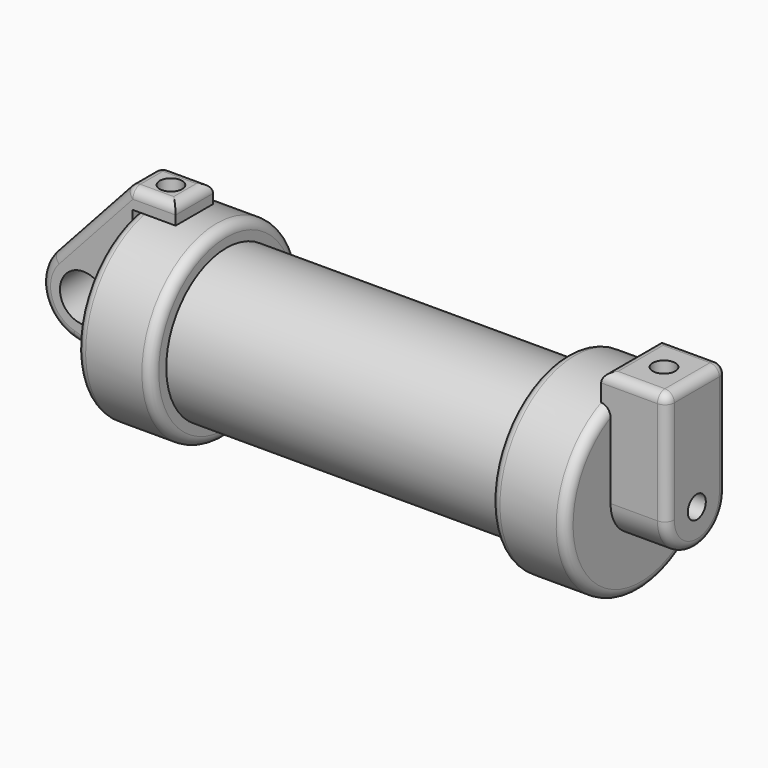
from build123d import *

# Parameters (mm, degrees)
F0_W          = 5.842
F0_H          = 12.7
F0_R          = 3.175
F2_DEPTH      = 3.175
F3_R          = 1.524
F4_DEPTH      = 7.62
F4_DEPTH_BACK = 1.27
F5_R          = 1.524
F6_DEPTH      = 63.754
F8_R          = 1.524
F9_DEPTH      = 17.78
F7_R          = 1.524
F10_DEPTH     = 10.414
F11_R         = 1.27
F11_2_R       = 1.27
F11_3_R       = 1.27


with BuildPart() as f1:
    # F0 (on Front) → F1 (revolve)
    with BuildSketch(Plane.XZ):
        Polygon((5.842, 12.7), (5.842, 0), (66.294, 0), (66.294, 12.7), (56.134, 12.7), (56.134, 10.16), (10.16, 10.16), (10.16, 12.7), align=None)
        with Locations((2.921, 6.35)):
            Rectangle(F0_W, F0_H)
    revolve(axis=Axis((33.147, 0, 0), (-1, 0, 0)))

    # F5 (on face) → F6 (cut, through all)
    with BuildSketch(Plane.YZ.offset(73.914)):
        Circle(F5_R)
    extrude(amount=-F6_DEPTH, mode=Mode.SUBTRACT)

    # F11
    f11_edges = [f1.edges().sort_by_distance(p)[0] for p in [
        (56.134, 0, -12.7),
        (66.294, 0, -12.7),
        (10.16, 0, -12.7),
        (0, 0, -12.7),
    ]]
    fillet(f11_edges, radius=F11_R)


with BuildPart() as f2:
    # F0 (on Front) → F2 (new body, symmetric)
    with BuildSketch(Plane.XZ):
        with BuildLine():
            Line((-0.9398, 0), (0, 0))
            Line((0, 0), (0, 12.7))
            Line((0, 12.7), (5.842, 12.7))
            Line((5.842, 12.7), (5.842, 15.24))
            Line((5.842, 15.24), (-0.508, 15.24))
            Line((-0.508, 15.24), (-10.8806298187, 3.8475430269))
            ThreePointArc((-10.8806298187, 3.8475430269), (-4.5919612295, 5.3297205562), (-0.9398, 0))
        make_face()
        with BuildLine():
            ThreePointArc((-8.1826630726, -5.5069827884), (-3.1957909266, -4.5493385486), (-0.9398, 0))
            ThreePointArc((-0.9398, 0), (-4.5919612295, 5.3297205562), (-10.8806298187, 3.8475430269))
            ThreePointArc((-10.8806298187, 3.8475430269), (-12.1459778134, -1.5837270034), (-8.1826630726, -5.5069827884))
        make_face()
        with Locations((-6.6548, 0)):
            Circle(F0_R, mode=Mode.SUBTRACT)
        with BuildLine():
            Line((5.842, 0), (0, 0))
            Line((0, 0), (-0.9398, 0))
            ThreePointArc((-0.9398, 0), (-3.1957909266, -4.5493385486), (-8.1826630726, -5.5069827884))
            Line((-8.1826630726, -5.5069827884), (5.842, -9.398))
            Line((5.842, -9.398), (5.842, 0))
        make_face()
    extrude(amount=F2_DEPTH, both=True)

    # F8 (on face) → F9 (cut)
    with BuildSketch(Plane.XY.offset(15.24)):
        with Locations((2.667, 0)):
            Circle(F8_R)
    extrude(amount=-F9_DEPTH, mode=Mode.SUBTRACT)

    # F11#2
    f11_2_edges = [f2.edges().sort_by_distance(p)[0] for p in [
        (5.842, 0, 15.24),
        (2.667, 3.175, 15.24),
        (-0.508, 0, 15.24),
        (2.667, -3.175, 15.24),
        (-5.694315, -3.175, 9.543772),
        (-12.145978, -3.175, -1.583727),
        (-12.145978, 3.175, -1.583727),
        (-5.694315, 3.175, 9.543772),
        (-1.170332, -3.175, -7.452491),
        (-1.170332, 3.175, -7.452491),
    ]]
    fillet(f11_2_edges, radius=F11_2_R)


with BuildPart() as f4:
    # F3 (on face) → F4 (new body, two sides)
    with BuildSketch(Plane.YZ.offset(66.294)) as f4_sk:
        with BuildLine():
            ThreePointArc((-5.08, 0), (0, -5.08), (5.08, 0))
            ThreePointArc((5.08, 0), (0, 5.08), (-5.08, 0))
        make_face()
        Circle(F3_R, mode=Mode.SUBTRACT)
        with BuildLine():
            ThreePointArc((-5.08, 0), (0, 5.08), (5.08, 0))
            Line((5.08, 0), (5.08, 15.24))
            Line((5.08, 15.24), (-5.08, 15.24))
            Line((-5.08, 15.24), (-5.08, 0))
        make_face()
    extrude(amount=F4_DEPTH)
    extrude(f4_sk.sketch, amount=-F4_DEPTH_BACK)

    # F7 (on face) → F10 (cut)
    with BuildSketch(Plane.XY.offset(15.24)):
        with Locations((69.469, 0)):
            Circle(F7_R)
    extrude(amount=-F10_DEPTH, mode=Mode.SUBTRACT)

    # F11#3
    f11_3_edges = [f4.edges().sort_by_distance(p)[0] for p in [
        (73.914, 0, 15.24),
        (69.469, -5.08, 15.24),
        (65.024, 0, 15.24),
        (69.469, 5.08, 15.24),
        (73.914, 0, -5.08),
        (73.914, 5.08, 7.62),
        (73.914, -5.08, 7.62),
    ]]
    fillet(f11_3_edges, radius=F11_3_R)


solid = Compound([f1.part, f2.part, f4.part])
